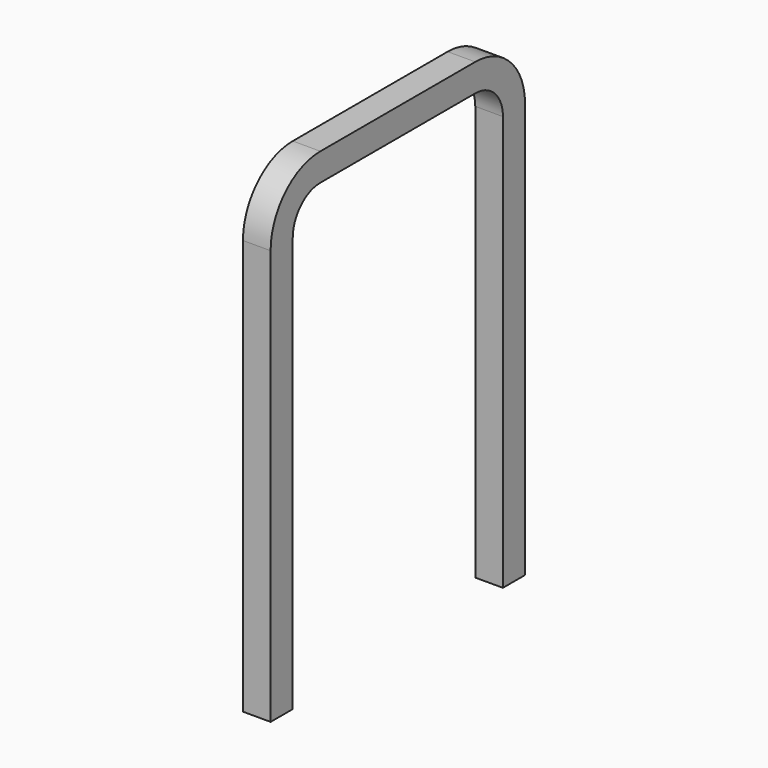
from build123d import *

# Parameters (mm, degrees)
F1_DEPTH = 20


with BuildPart() as f1:
    # F0 (on Right) → F1 (new body, symmetric)
    with BuildSketch(Plane.YZ):
        with BuildLine():
            Line((-230, 0), (-190, 0))
            Line((-190, 0), (-190, 600))
            ThreePointArc((-190, 600), (-175.355339, 635.355339), (-140, 650))
            Line((-140, 650), (140, 650))
            ThreePointArc((140, 650), (175.355339, 635.355339), (190, 600))
            Line((190, 600), (190, 0))
            Line((190, 0), (230, 0))
            Line((230, 0), (230, 600))
            ThreePointArc((230, 600), (203.63961, 663.63961), (140, 690))
            Line((140, 690), (-140, 690))
            ThreePointArc((-140, 690), (-203.63961, 663.63961), (-230, 600))
            Line((-230, 600), (-230, 0))
        make_face()
    extrude(amount=F1_DEPTH, both=True)


solid = f1.part
